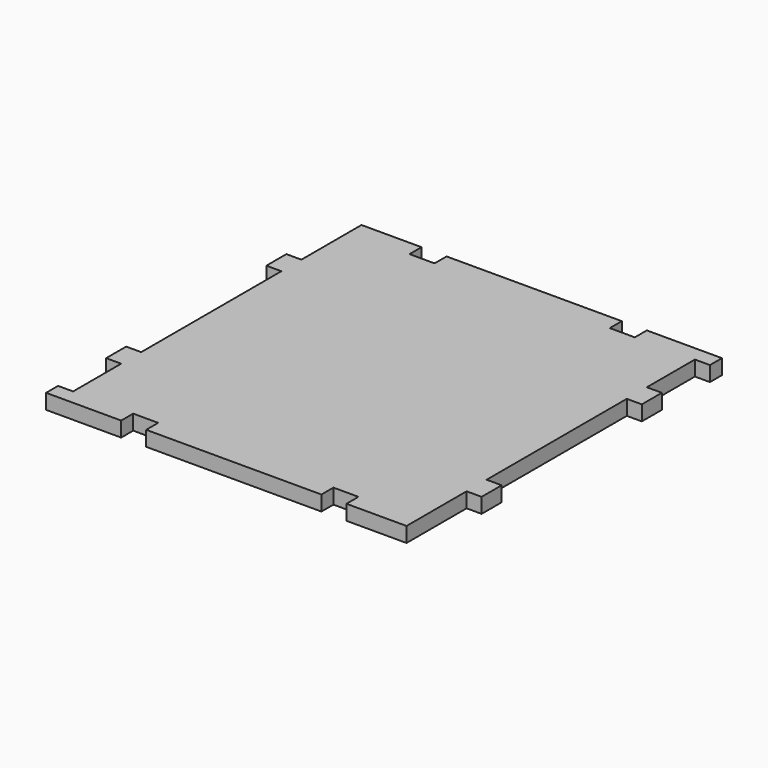
from build123d import *

# Parameters (mm, degrees)
F0_W     = 6
F0_H     = 10
F0_H_2   = 6
F1_DEPTH = 6


with BuildPart() as f1:
    # F0 (on Top) → F1 (new body)
    with BuildSketch(Plane.XY):
        with Locations((-72, 40)):
            Rectangle(F0_W, F0_H)
        Polygon((45, -75), (69, -75), (69, -69), (69, -45), (69, -35), (69, 35), (69, 45), (69, 69), (69, 75), (45, 75), (45, 69), (35, 69), (35, 75), (-35, 75), (-35, 69), (-45, 69), (-45, 75), (-69, 75), (-69, 69), (-69, 45), (-69, 35), (-69, -35), (-69, -45), (-69, -69), (-69, -75), (-45, -75), (-45, -69), (-35, -69), (-35, -75), (35, -75), (35, -69), (45, -69), align=None)
        with Locations((-72, -40)):
            Rectangle(F0_W, F0_H)
        with Locations((72, -40)):
            Rectangle(F0_W, F0_H)
        with Locations((72, 40)):
            Rectangle(F0_W, F0_H)
        with Locations((-72, -72)):
            Rectangle(F0_W, F0_H_2)
        with Locations((72, 72)):
            Rectangle(F0_W, F0_H_2)
    extrude(amount=F1_DEPTH)


solid = f1.part
